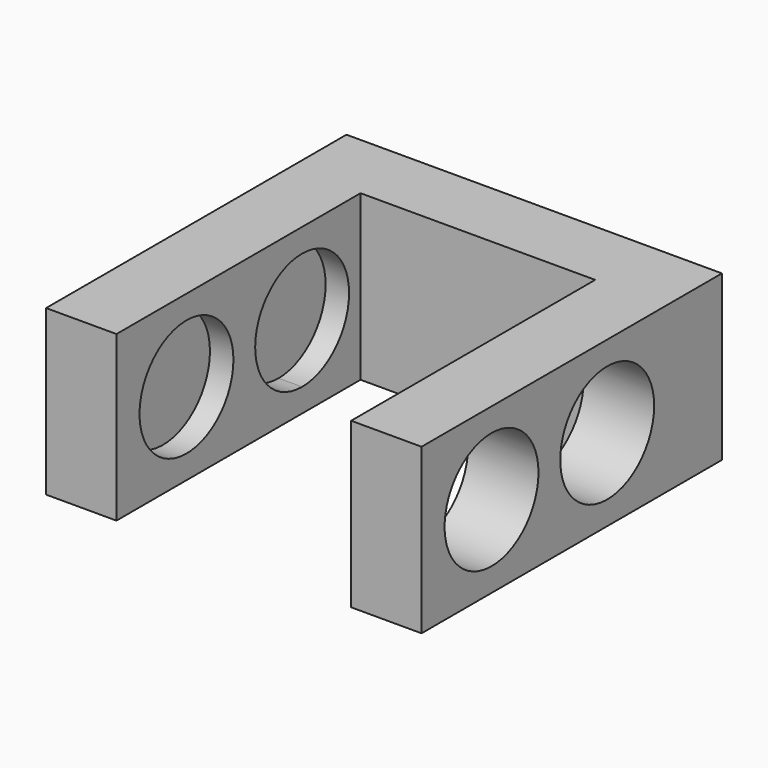
from build123d import *

# Parameters (mm, degrees)
F0_W      = 15
F0_H      = 80
F1_DEPTH  = 35
F2_W      = 15
F2_H      = 35
F3_DEPTH  = 50
F4_R      = 12.5
F5_DEPTH  = 5
F6_W      = 15
F6_H      = 35
F6_W_2    = 65
F7_DEPTH  = 15
F5_FACE_R = 12.5
F8_DEPTH  = 100


with BuildPart() as f1:
    # F0 (on Top) → F1 (new body)
    with BuildSketch(Plane.XY):
        with Locations((-45.405393, -2.018945)):
            Rectangle(F0_W, F0_H)
    extrude(amount=F1_DEPTH)

    # F2 (on face) → F3 (join)
    with BuildSketch(Plane.YZ.offset(-37.905393)):
        with Locations((30.481055, 17.5)):
            Rectangle(F2_W, F2_H)
    extrude(amount=F3_DEPTH)

    # F4 (on face) → F5 (cut)
    with BuildSketch(Plane.YZ.offset(-37.905393)):
        with Locations((-23.376025, 17.5)):
            Circle(F4_R)
        with Locations((7.423157, 17.5)):
            Circle(F4_R)
    extrude(amount=-F5_DEPTH, mode=Mode.SUBTRACT)

    # F6 (on face) → F7 (join)
    with BuildSketch(Plane.YZ.offset(12.094607)):
        with Locations((30.481055, 17.5)):
            Rectangle(F6_W, F6_H)
        with Locations((-9.518945, 17.5)):
            Rectangle(F6_W_2, F6_H)
    extrude(amount=F7_DEPTH)

    # F5_face (on face) → F8 (cut)
    with BuildSketch(Plane(origin=(-42.905393, -23.376025, 17.5), x_dir=(0, 1, 0), z_dir=(1, 0, 0))):
        Circle(F5_FACE_R)
        with Locations((30.799183, 0)):
            Circle(F5_FACE_R)
    extrude(amount=F8_DEPTH, mode=Mode.SUBTRACT)


solid = f1.part
